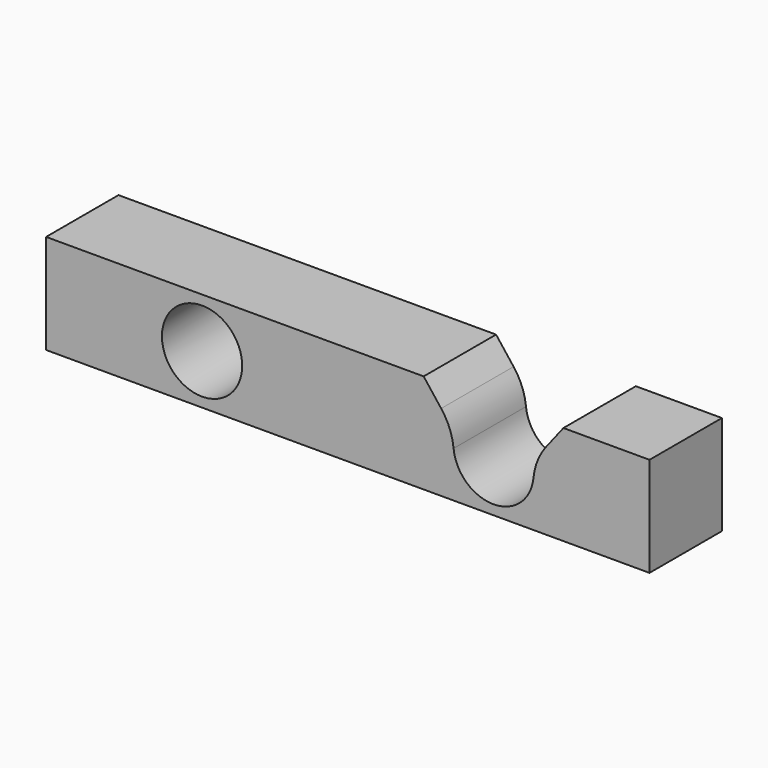
from build123d import *

# Parameters (mm, degrees)
F0_W     = 50.8
F0_H     = 8.382
F1_DEPTH = 7.62
F3_D     = 6.7564
F3_DEPTH = 23.3426
F3_TIP   = 2.0298273432
F5_DEPTH = 25.4
F6_R     = 5.08


with BuildPart() as f1:
    # F0 (on Front) → F1 (new body)
    with BuildSketch(Plane.XZ):
        Rectangle(F0_W, F0_H)
    extrude(amount=F1_DEPTH)

    # F3
    with Locations(Plane.XZ.offset(7.62)):
        with Locations((-12.2682, 0), (12.2682, 0)):
            Hole(F3_D / 2, depth=F3_DEPTH)
            with Locations((0, 0, -(F3_DEPTH + F3_TIP / 2))):  # 118° drill point
                Cone(0, F3_D / 2, F3_TIP, mode=Mode.SUBTRACT)

    # F4 (on face) → F5 (cut)
    with BuildSketch(Plane.XZ.offset(7.62)):
        with BuildLine():
            Line((6.3864027151, 4.191), (8.9947894332, 0.8348763389))
            ThreePointArc((8.9947894332, 0.8348763389), (12.2692015488, 3.3781998515), (15.5421050298, 0.8329352293))
            Line((15.5421050298, 0.8329352293), (18.1520003825, 4.191))
            Line((18.1520003825, 4.191), (6.3864027151, 4.191))
        make_face()
    extrude(amount=-F5_DEPTH, mode=Mode.SUBTRACT)

    # F6
    f6_edges = [f1.edges().sort_by_distance(p)[0] for p in [
        (8.994789, -3.81, 0.834876),
        (15.542105, -3.81, 0.832935),
    ]]
    fillet(f6_edges, radius=F6_R)


solid = f1.part
